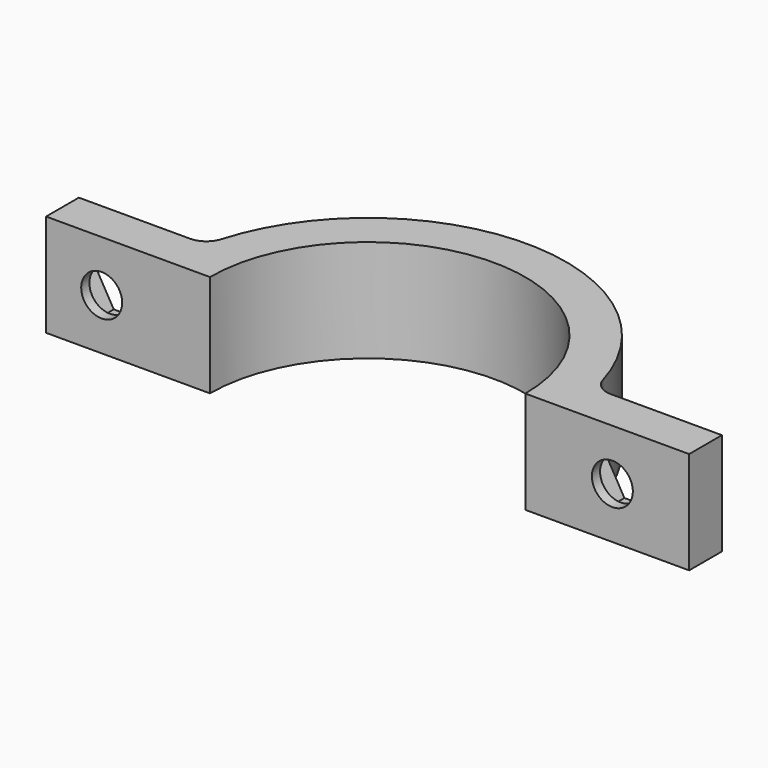
from build123d import *

# Parameters (mm, degrees)
F1_DEPTH = 10
F2_R     = 2
F3_DEPTH = 4.001
F5_DEPTH = 3
F7_DEPTH = 3
F8_DEPTH = 25


with BuildPart() as f1:
    # F0 (on Top) → F1 (new body)
    with BuildSketch(Plane.XY):
        with BuildLine():
            ThreePointArc((-58.60368, -38.875302), (-43.20368, -23.475302), (-27.80368, -38.875302))
            Line((-27.80368, -38.875302), (-11.80368, -38.875302))
            Line((-11.80368, -38.875302), (-11.80368, -34.875302))
            Line((-11.80368, -34.875302), (-22.662015, -34.875302))
            ThreePointArc((-22.662015, -34.875302), (-23.861703, -34.475536), (-24.581796, -33.43605))
            ThreePointArc((-24.581796, -33.43605), (-43.20368, -19.475302), (-61.825563, -33.43605))
            ThreePointArc((-61.825563, -33.43605), (-62.545656, -34.475536), (-63.745345, -34.875302))
            Line((-63.745345, -34.875302), (-74.60368, -34.875302))
            Line((-74.60368, -34.875302), (-74.60368, -38.875302))
            Line((-74.60368, -38.875302), (-62.60368, -38.875302))
            Line((-62.60368, -38.875302), (-58.60368, -38.875302))
        make_face()
    extrude(amount=F1_DEPTH)

    # F2 (on face) → F3 (cut, through all)
    with BuildSketch(Plane(origin=(0, -34.875302, 0), x_dir=(-1, 0, 0), z_dir=(0, 1, 0))):
        with Locations((69.174512, 5)):
            Circle(F2_R)
        with Locations((19.30368, 5)):
            Circle(F2_R)
    extrude(amount=-F3_DEPTH, mode=Mode.SUBTRACT)

    # F4 (on face) → F5 (cut)
    with BuildSketch(Plane(origin=(0, -34.875302, 0), x_dir=(-1, 0, 0), z_dir=(0, 1, 0))):
        Polygon((65.13306, 5), (67.153786, 1.5), (71.195238, 1.5), (73.215964, 5), (71.195238, 8.5), (67.153786, 8.5), align=None)
    extrude(amount=-F5_DEPTH, mode=Mode.SUBTRACT)

    # F6 (on face) → F7 (cut)
    with BuildSketch(Plane(origin=(0, -34.875302, 0), x_dir=(-1, 0, 0), z_dir=(0, 1, 0))):
        Polygon((15.262228, 5), (17.282954, 1.5), (21.324406, 1.5), (23.345132, 5), (21.324406, 8.5), (17.282954, 8.5), align=None)
    extrude(amount=-F7_DEPTH, mode=Mode.SUBTRACT)

    # F6 (on face) → F8 (cut)
    with BuildSketch(Plane(origin=(0, -34.875302, 0), x_dir=(-1, 0, 0), z_dir=(0, 1, 0))):
        Polygon((15.262228, 5), (17.282954, 1.5), (21.324406, 1.5), (23.345132, 5), (21.324406, 8.5), (17.282954, 8.5), align=None)
    extrude(amount=F8_DEPTH, mode=Mode.SUBTRACT)


solid = f1.part
